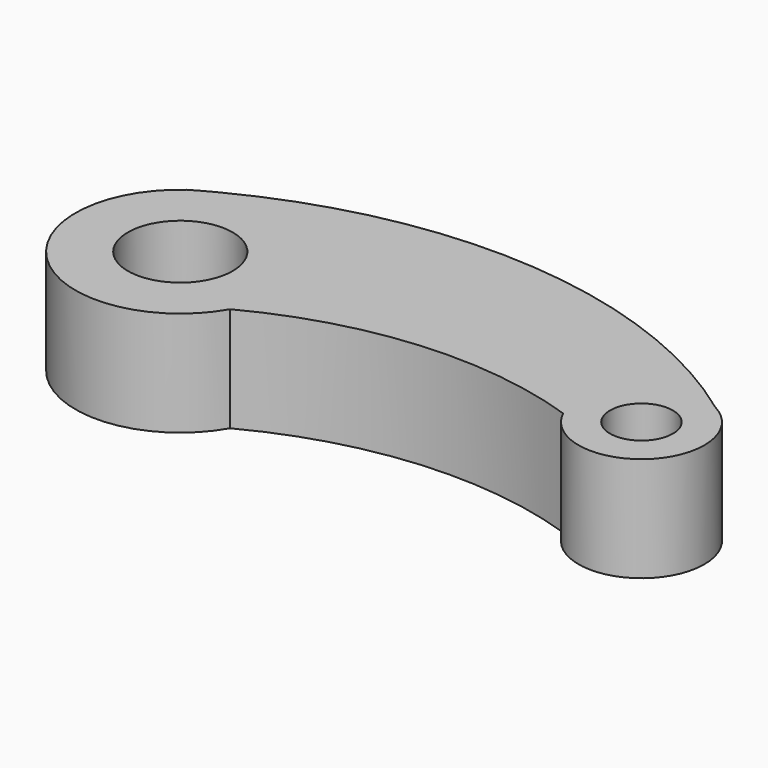
from build123d import *

# Parameters (mm, degrees)
F0_R     = 12.5
F0_R_2   = 7.5
F1_DEPTH = 25


with BuildPart() as f1:
    # F0 (on Top) → F1 (new body)
    with BuildSketch(Plane.XY):
        with BuildLine():
            ThreePointArc((60.859742, 61.362541), (-0.829779, 84.343763), (-65.360229, 71.322454))
            ThreePointArc((-65.360229, 71.322454), (-68.102494, 69.860047), (-70.805967, 68.327115))
            ThreePointArc((-70.805967, 68.327115), (-72.798151, 29.458795), (-34.389511, 35.743021))
            ThreePointArc((-34.389511, 35.743021), (2.341937, 46.39821), (40.298576, 41.705039))
            ThreePointArc((40.298576, 41.705039), (64.237658, 37.247404), (60.859742, 61.362541))
        make_face()
        with Locations((-56.12801, 48.089586)):
            Circle(F0_R, mode=Mode.SUBTRACT)
        with Locations((53.87199, 48.089586)):
            Circle(F0_R_2, mode=Mode.SUBTRACT)
    extrude(amount=F1_DEPTH)


solid = f1.part
